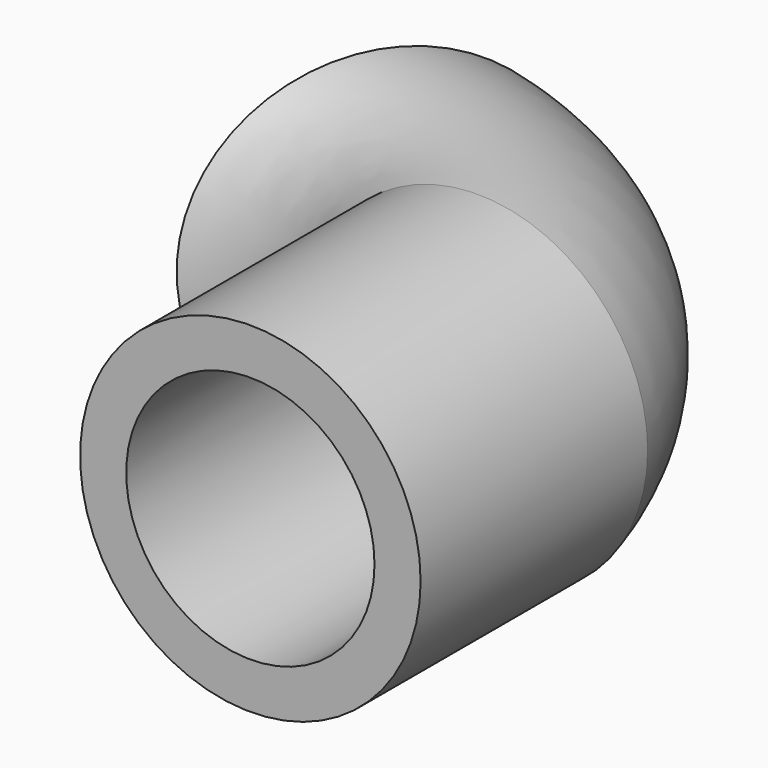
from build123d import *

# Parameters (mm, degrees)
F0_R        = 15.24
F0_R_2      = 11.1125
F1_DEPTH    = 25.4
F1_FACE_R   = 15.24
F1_FACE_R_2 = 11.1125


with BuildPart() as f1:
    # F0 (on Front) → F1 (new body)
    with BuildSketch(Plane.XZ):
        with Locations((20.32, 0)):
            Circle(F0_R)
        with Locations((20.32, 0)):
            Circle(F0_R_2, mode=Mode.SUBTRACT)
    extrude(amount=F1_DEPTH)

    # F3: sweep along a path in F2
    with BuildLine(Plane.XY) as f3_path:
        ThreePointArc((35.021459, 0), (25.502703, 15.881244), (9.621459, 25.4))
    # F1_face (on face) → F3 (sweep)
    with BuildSketch(Plane(origin=(20.32, 0, 0), x_dir=(1, 0, 0), z_dir=(0, 1, 0))):
        Circle(F1_FACE_R)
        Circle(F1_FACE_R_2, mode=Mode.SUBTRACT)
    sweep(path=f3_path.line)


solid = f1.part
